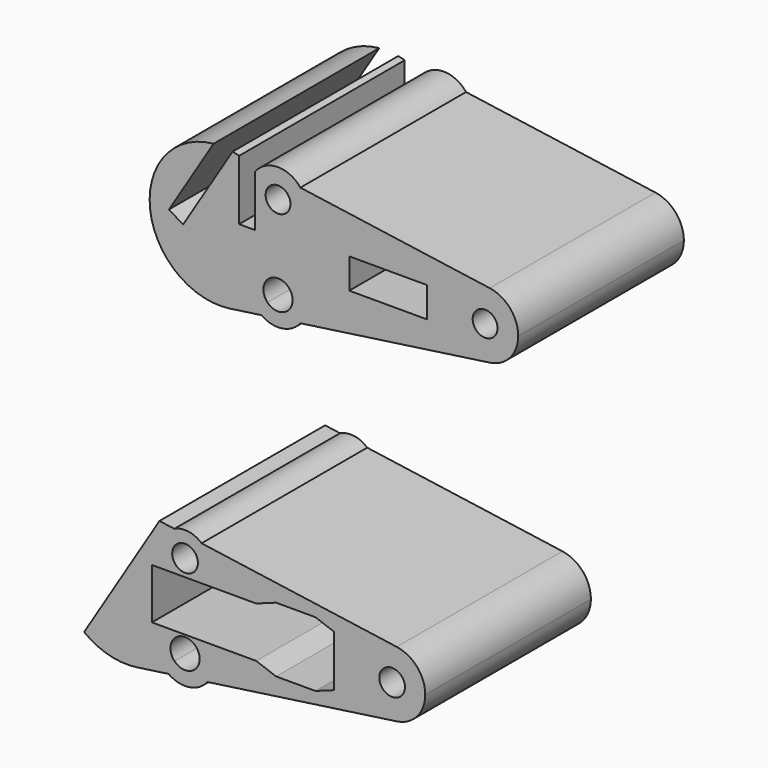
from build123d import *

# Parameters (mm, degrees)
F0_R     = 1.5
F0_W     = 9.4
F0_H     = 3.65
F1_DEPTH = 25
F0_R_2   = 1.55


with BuildPart() as f1:
    # F0 (on Front) → F1 (new body)
    with BuildSketch(Plane.XZ):
        with BuildLine():
            Line((-49.3615542974, 52.7548726737), (-44.6667412439, 52.0880382086))
            ThreePointArc((-44.6667412439, 52.0880382086), (-46.8811865433, 53.357561984), (-49.3615542974, 52.7548726737))
        make_face()
        with BuildLine():
            ThreePointArc((-49.3615542974, 37.0057918546), (-46.8811865433, 36.4031025443), (-44.6667412439, 37.6726263196))
            Line((-44.6667412439, 37.6726263196), (-49.3615542974, 37.0057918546))
        make_face()
        with BuildLine():
            ThreePointArc((-49.3615542974, 37.0057918546), (-49.6973054486, 37.2776069924), (-49.9964053831, 37.5892984006))
            ThreePointArc((-49.9964053831, 37.5892984006), (-51.5271600553, 36.8683017678), (-53.1703977707, 36.4647973419))
            Line((-53.1703977707, 36.4647973419), (-49.3615542974, 37.0057918546))
        make_face()
        with BuildLine():
            ThreePointArc((-18.3657102707, 44.8803322641), (-19.3449487773, 47.5023543846), (-21.8032102707, 48.8405839922))
            ThreePointArc((-21.8032102707, 48.8405839922), (-26.3657102707, 44.8803322641), (-21.8032102707, 40.920080536))
            ThreePointArc((-21.8032102707, 40.920080536), (-19.3449487773, 42.2583101437), (-18.3657102707, 44.8803322641))
        make_face()
        with Locations((-22.3657102707, 44.8803322641)):
            Circle(F0_R, mode=Mode.SUBTRACT)
        with BuildLine():
            ThreePointArc((-46.7192717295, 48.5927408672), (-46.3438242586, 47.690909573), (-46.0743279136, 46.751956855))
            ThreePointArc((-46.0743279136, 46.751956855), (-44.5090561942, 48.0198994141), (-43.9202082096, 49.9462981111))
            ThreePointArc((-43.9202082096, 49.9462981111), (-44.1121900389, 51.0803574368), (-44.6667412439, 52.0880382086))
            Line((-44.6667412439, 52.0880382086), (-49.3615542974, 52.7548726737))
            ThreePointArc((-49.3615542974, 52.7548726737), (-49.6973054486, 52.4830575358), (-49.9964053831, 52.1713661277))
            ThreePointArc((-49.9964053831, 52.1713661277), (-49.1887221415, 51.6219043293), (-48.4494153042, 50.9834014813))
            ThreePointArc((-48.4494153042, 50.9834014813), (-46.806942676, 51.3383393372), (-45.8657102707, 49.9462981111))
            ThreePointArc((-45.8657102707, 49.9462981111), (-46.096919939, 49.1461911844), (-46.7192717295, 48.5927408672))
        make_face()
        with BuildLine():
            ThreePointArc((-43.9202082096, 39.8143664172), (-44.5090561942, 41.7407651142), (-46.0743279136, 43.0087076733))
            ThreePointArc((-46.0743279136, 43.0087076733), (-46.3014397022, 42.1937842564), (-46.6084329672, 41.4054727221))
            ThreePointArc((-46.6084329672, 41.4054727221), (-45.875826677, 40.7552888716), (-45.6035842286, 39.8143664172))
            ThreePointArc((-45.6035842286, 39.8143664172), (-46.710391094, 38.1786265342), (-48.6404214365, 38.5977318658))
            ThreePointArc((-48.6404214365, 38.5977318658), (-49.2932907183, 38.0597340583), (-49.9964053831, 37.5892984006))
            ThreePointArc((-49.9964053831, 37.5892984006), (-49.6973054486, 37.2776069924), (-49.3615542974, 37.0057918546))
            Line((-49.3615542974, 37.0057918546), (-44.6667412439, 37.6726263196))
            ThreePointArc((-44.6667412439, 37.6726263196), (-44.1121900389, 38.6803070915), (-43.9202082096, 39.8143664172))
        make_face()
        with BuildLine():
            ThreePointArc((-46.0743279136, 46.751956855), (-45.9180256756, 45.8219399226), (-45.8657102707, 44.8803322641))
            ThreePointArc((-45.8657102707, 44.8803322641), (-45.9180256756, 43.9387246056), (-46.0743279136, 43.0087076733))
            ThreePointArc((-46.0743279136, 43.0087076733), (-44.5090561942, 41.7407651142), (-43.9202082096, 39.8143664172))
            ThreePointArc((-43.9202082096, 39.8143664172), (-44.1121900389, 38.6803070915), (-44.6667412439, 37.6726263196))
            Line((-44.6667412439, 37.6726263196), (-21.8032102707, 40.920080536))
            ThreePointArc((-21.8032102707, 40.920080536), (-26.3657102707, 44.8803322641), (-21.8032102707, 48.8405839922))
            Line((-21.8032102707, 48.8405839922), (-44.6667412439, 52.0880382086))
            ThreePointArc((-44.6667412439, 52.0880382086), (-44.1121900389, 51.0803574368), (-43.9202082096, 49.9462981111))
            ThreePointArc((-43.9202082096, 49.9462981111), (-44.5090561942, 48.0198994141), (-46.0743279136, 46.751956855))
        make_face()
        with Locations((-34.0657102707, 44.8803322641)):
            Rectangle(F0_W, F0_H, mode=Mode.SUBTRACT)
        with BuildLine():
            ThreePointArc((-46.0743279136, 43.0087076733), (-45.9180256756, 43.9387246056), (-45.8657102707, 44.8803322641))
            ThreePointArc((-45.8657102707, 44.8803322641), (-45.9180256756, 45.8219399226), (-46.0743279136, 46.751956855))
            ThreePointArc((-46.0743279136, 46.751956855), (-48.3253554138, 46.6371342209), (-50.1657102707, 47.9384424259))
            Line((-50.1657102707, 47.9384424259), (-50.1657102707, 45.7958671864))
            Line((-50.1657102707, 45.7958671864), (-52.0657102707, 45.7958671864))
            Line((-52.0657102707, 45.7958671864), (-52.0657102707, 53.0632412823))
            ThreePointArc((-52.0657102707, 53.0632412823), (-52.4606249782, 53.1640904709), (-52.8599201475, 53.2458923831))
            Line((-52.8599201475, 53.2458923831), (-58.8291358212, 43.555559183))
            Line((-58.8291358212, 43.555559183), (-60.5319868708, 44.604510232))
            Line((-60.5319868708, 44.604510232), (-55.1483494046, 53.3442247484))
            ThreePointArc((-55.1483494046, 53.3442247484), (-62.8079458881, 43.8910609262), (-53.1703977707, 36.4647973419))
            ThreePointArc((-53.1703977707, 36.4647973419), (-51.5271600553, 36.8683017678), (-49.9964053831, 37.5892984006))
            ThreePointArc((-49.9964053831, 37.5892984006), (-50.1569356074, 41.8344024496), (-46.0743279136, 43.0087076733))
        make_face()
        with BuildLine():
            ThreePointArc((-50.1657102707, 47.9384424259), (-48.3253554138, 46.6371342209), (-46.0743279136, 46.751956855))
            ThreePointArc((-46.0743279136, 46.751956855), (-46.3438242586, 47.690909573), (-46.7192717295, 48.5927408672))
            ThreePointArc((-46.7192717295, 48.5927408672), (-48.58087077, 49.066875027), (-48.4494153042, 50.9834014813))
            ThreePointArc((-48.4494153042, 50.9834014813), (-49.1887221415, 51.6219043293), (-49.9964053831, 52.1713661277))
            ThreePointArc((-49.9964053831, 52.1713661277), (-50.0832289275, 52.0644522137), (-50.1657102707, 51.9541537963))
            Line((-50.1657102707, 51.9541537963), (-50.1657102707, 47.9384424259))
        make_face()
        with BuildLine():
            ThreePointArc((-46.6084329672, 41.4054727221), (-46.3014397022, 42.1937842564), (-46.0743279136, 43.0087076733))
            ThreePointArc((-46.0743279136, 43.0087076733), (-50.1569356074, 41.8344024496), (-49.9964053831, 37.5892984006))
            ThreePointArc((-49.9964053831, 37.5892984006), (-49.2932907183, 38.0597340583), (-48.6404214365, 38.5977318658))
            ThreePointArc((-48.6404214365, 38.5977318658), (-48.7932209115, 40.8474692961), (-46.6084329672, 41.4054727221))
        make_face()
    extrude(amount=F1_DEPTH)


with BuildPart() as f1b:
    # F0 (on Front) → F1, piece 2 (new body)
    with BuildSketch(Plane.XZ):
        with BuildLine():
            ThreePointArc((-56.5981590856, 10.4079229965), (-58.1696802178, 11.1361546431), (-59.88182635, 10.8743233576))
            Line((-59.88182635, 10.8743233576), (-56.5981590856, 10.4079229965))
        make_face()
        with BuildLine():
            Line((-55.8925861911, -4.1077059445), (-60.5873992446, -4.7745404096))
            ThreePointArc((-60.5873992446, -4.7745404096), (-58.1070314905, -5.3772297198), (-55.8925861911, -4.1077059445))
        make_face()
        with BuildLine():
            ThreePointArc((-61.2222503302, -4.1910338635), (-62.7530050024, -4.9120304964), (-64.3962427178, -5.3155349222))
            Line((-64.3962427178, -5.3155349222), (-60.5873992446, -4.7745404096))
            ThreePointArc((-60.5873992446, -4.7745404096), (-60.9231503958, -4.5027252717), (-61.2222503302, -4.1910338635))
        make_face()
        with BuildLine():
            ThreePointArc((-29.5915552178, 3.1), (-30.5707937244, 5.7220221204), (-33.0290552178, 7.0602517281))
            ThreePointArc((-33.0290552178, 7.0602517281), (-37.5915552178, 3.1), (-33.0290552178, -0.8602517281))
            ThreePointArc((-33.0290552178, -0.8602517281), (-30.5707937244, 0.4779778796), (-29.5915552178, 3.1))
        make_face()
        with Locations((-33.5915552178, 3.1)):
            Circle(F0_R_2, mode=Mode.SUBTRACT)
        with BuildLine():
            Line((-61.6794219157, 11.1296474065), (-61.9071433305, 10.7599679532))
            ThreePointArc((-61.9071433305, 10.7599679532), (-61.3636857461, 10.4739487203), (-60.8422981172, 10.1494366436))
            ThreePointArc((-60.8422981172, 10.1494366436), (-60.3987796864, 10.5605304671), (-59.88182635, 10.8743233576))
            Line((-59.88182635, 10.8743233576), (-61.6794219157, 11.1296474065))
        make_face()
        with BuildLine():
            ThreePointArc((-59.88182635, 10.8743233576), (-60.3987796864, 10.5605304671), (-60.8422981172, 10.1494366436))
            ThreePointArc((-60.8422981172, 10.1494366436), (-60.2572684434, 9.7178081423), (-59.7112630741, 9.2377654162))
            ThreePointArc((-59.7112630741, 9.2377654162), (-58.0140810527, 9.6043759375), (-57.0415552178, 8.165965847))
            ThreePointArc((-57.0415552178, 8.165965847), (-57.2804253293, 7.3392625052), (-57.9234112376, 6.7673652529))
            ThreePointArc((-57.9234112376, 6.7673652529), (-57.7844053967, 6.4613110048), (-57.6576091631, 6.15))
            Line((-57.6576091631, 6.15), (-56.3698707884, 6.15))
            ThreePointArc((-56.3698707884, 6.15), (-55.7928900639, 7.0854690372), (-55.5915552178, 8.165965847))
            ThreePointArc((-55.5915552178, 8.165965847), (-55.8547515716, 9.3947480904), (-56.5981590856, 10.4079229965))
            Line((-56.5981590856, 10.4079229965), (-59.88182635, 10.8743233576))
        make_face()
        with BuildLine():
            Line((-61.9071433305, 10.7599679532), (-70.7752651046, -3.6364049619))
            ThreePointArc((-70.7752651046, -3.6364049619), (-67.7552783481, -5.119994052), (-64.3962427178, -5.3155349222))
            ThreePointArc((-64.3962427178, -5.3155349222), (-62.7530050024, -4.9120304964), (-61.2222503302, -4.1910338635))
            ThreePointArc((-61.2222503302, -4.1910338635), (-62.0345005853, -2.0986747351), (-61.3857216689, 0.05))
            Line((-61.3857216689, 0.05), (-62.5915552178, 0.05))
            Line((-62.5915552178, 0.05), (-62.5915552178, 6.15))
            Line((-62.5915552178, 6.15), (-60.8132396472, 6.15))
            ThreePointArc((-60.8132396472, 6.15), (-61.5914760367, 8.1441695), (-60.8422981172, 10.1494366436))
            ThreePointArc((-60.8422981172, 10.1494366436), (-61.3636857461, 10.4739487203), (-61.9071433305, 10.7599679532))
        make_face()
        with BuildLine():
            ThreePointArc((-59.8662663837, -3.1826003984), (-60.5191356655, -3.7205982058), (-61.2222503302, -4.1910338635))
            ThreePointArc((-61.2222503302, -4.1910338635), (-60.9231503958, -4.5027252717), (-60.5873992446, -4.7745404096))
            Line((-60.5873992446, -4.7745404096), (-55.8925861911, -4.1077059445))
            ThreePointArc((-55.8925861911, -4.1077059445), (-55.3380349861, -3.1000251727), (-55.1460531568, -1.965965847))
            ThreePointArc((-55.1460531568, -1.965965847), (-55.3129281638, -0.9066787786), (-55.7973887667, 0.05))
            Line((-55.7973887667, 0.05), (-57.6576091631, 0.05))
            ThreePointArc((-57.6576091631, 0.05), (-57.7430681644, -0.1636254339), (-57.8342779143, -0.374859542))
            ThreePointArc((-57.8342779143, -0.374859542), (-57.1016716241, -1.0250433925), (-56.8294291758, -1.965965847))
            ThreePointArc((-56.8294291758, -1.965965847), (-57.9362360412, -3.6017057299), (-59.8662663837, -3.1826003984))
        make_face()
        with BuildLine():
            Line((-33.0290552178, 7.0602517281), (-56.5981590856, 10.4079229965))
            ThreePointArc((-56.5981590856, 10.4079229965), (-55.8547515716, 9.3947480904), (-55.5915552178, 8.165965847))
            ThreePointArc((-55.5915552178, 8.165965847), (-55.7928900639, 7.0854690372), (-56.3698707884, 6.15))
            Line((-56.3698707884, 6.15), (-49.9915552178, 6.15))
            Line((-49.9915552178, 6.15), (-49.9915552178, 7.02))
            Line((-49.9915552178, 7.02), (-47.6012498629, 7.02))
            Line((-47.6012498629, 7.02), (-42.8444867018, 7.02))
            Line((-42.8444867018, 7.02), (-40.5915552178, 7.02))
            Line((-40.5915552178, 7.02), (-40.5915552178, 6.2))
            Line((-40.5915552178, 6.2), (-40.5915552178, 0))
            Line((-40.5915552178, 0), (-40.5915552178, -0.82))
            Line((-40.5915552178, -0.82), (-42.8444867018, -0.82))
            Line((-42.8444867018, -0.82), (-47.6012498629, -0.82))
            Line((-47.6012498629, -0.82), (-49.9915552178, -0.82))
            Line((-49.9915552178, -0.82), (-49.9915552178, 0.05))
            Line((-49.9915552178, 0.05), (-55.7973887667, 0.05))
            ThreePointArc((-55.7973887667, 0.05), (-55.3129281638, -0.9066787786), (-55.1460531568, -1.965965847))
            ThreePointArc((-55.1460531568, -1.965965847), (-55.3380349861, -3.1000251727), (-55.8925861911, -4.1077059445))
            Line((-55.8925861911, -4.1077059445), (-33.0290552178, -0.8602517281))
            ThreePointArc((-33.0290552178, -0.8602517281), (-37.5915552178, 3.1), (-33.0290552178, 7.0602517281))
        make_face()
        with BuildLine():
            ThreePointArc((-61.3857216689, 0.05), (-62.0345005853, -2.0986747351), (-61.2222503302, -4.1910338635))
            ThreePointArc((-61.2222503302, -4.1910338635), (-60.5191356655, -3.7205982058), (-59.8662663837, -3.1826003984))
            ThreePointArc((-59.8662663837, -3.1826003984), (-60.0190658586, -0.932862968), (-57.8342779143, -0.374859542))
            ThreePointArc((-57.8342779143, -0.374859542), (-57.7430681644, -0.1636254339), (-57.6576091631, 0.05))
            Line((-57.6576091631, 0.05), (-61.3857216689, 0.05))
        make_face()
        with BuildLine():
            ThreePointArc((-59.7112630741, 9.2377654162), (-60.2572684434, 9.7178081423), (-60.8422981172, 10.1494366436))
            ThreePointArc((-60.8422981172, 10.1494366436), (-61.5914760367, 8.1441695), (-60.8132396472, 6.15))
            Line((-60.8132396472, 6.15), (-57.6576091631, 6.15))
            ThreePointArc((-57.6576091631, 6.15), (-57.7844053967, 6.4613110048), (-57.9234112376, 6.7673652529))
            ThreePointArc((-57.9234112376, 6.7673652529), (-59.8472210672, 7.2572286601), (-59.7112630741, 9.2377654162))
        make_face()
        Polygon((-40.5915552178, 0), (-42.8444867018, -0.82), (-40.5915552178, -0.82), align=None)
        Polygon((-47.6012498629, -0.82), (-49.9915552178, 0.05), (-49.9915552178, -0.82), align=None)
        Polygon((-40.5915552178, 7.02), (-42.8444867018, 7.02), (-40.5915552178, 6.2), align=None)
        Polygon((-49.9915552178, 7.02), (-49.9915552178, 6.15), (-47.6012498629, 7.02), align=None)
    extrude(amount=F1_DEPTH)


solid = Compound([f1.part, f1b.part])
